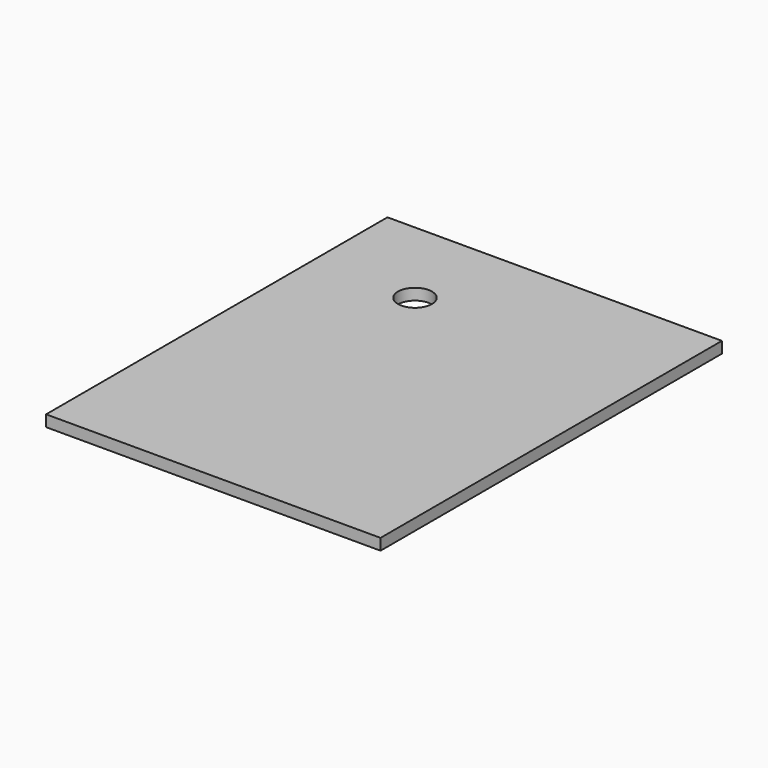
from build123d import *

# Parameters (mm, degrees)
CIRCLE_R           = 1.5
EXTRUSION002_DEPTH = 51.281793
RECTANGLE_W        = 29.556112
RECTANGLE_H        = 37.708242
EXTRUSION001_DEPTH = 1


with BuildPart() as extrusion002:
    # Circle (on Extrusion) → Extrusion002 (new body)
    with BuildSketch(Plane(origin=(69.75761, -114.027299, -125.386342), x_dir=(0, -1, 0), z_dir=(0, 0, 1))):
        Circle(CIRCLE_R)
    extrude(amount=-EXTRUSION002_DEPTH)


with BuildPart() as cut001:
    # Rectangle (on Cut) → Extrusion001 (new body)
    with BuildSketch(Plane(origin=(60.75761, -105.819057, -125.386342), x_dir=(1, 0, 0), z_dir=(0, 0, -1))):
        with Locations((14.778056, 18.854121)):
            Rectangle(RECTANGLE_W, RECTANGLE_H)
    extrude(amount=EXTRUSION001_DEPTH)

    # Cut001: cut Extrusion002
    add(extrusion002.part, mode=Mode.SUBTRACT)


solid = cut001.part
